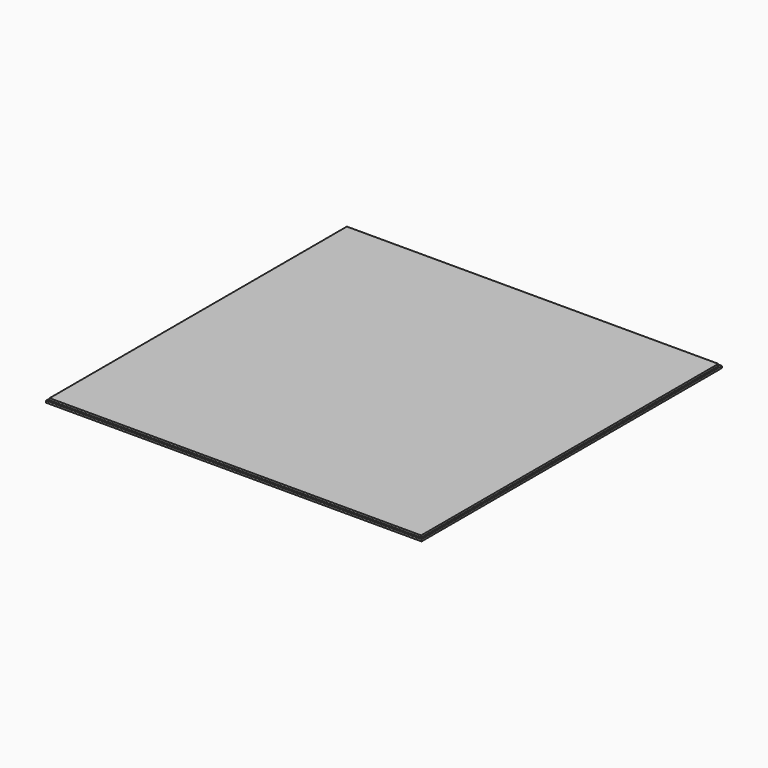
from build123d import *

# Parameters (mm, degrees)
F0_W     = 609.6
F0_H     = 609.6
F1_DEPTH = 6.35
F2_W     = 609.6
F2_H     = 609.6
F2_W_2   = 603.25
F2_H_2   = 603.25
F3_DEPTH = 3.175


with BuildPart() as f1:
    # F0 (on Top) → F1 (new body)
    with BuildSketch(Plane.XY):
        Rectangle(F0_W, F0_H)
    extrude(amount=F1_DEPTH)

    # F2 (on face) → F3 (cut)
    with BuildSketch(Plane.XY.offset(6.35)):
        Rectangle(F2_W, F2_H)
        Rectangle(F2_W_2, F2_H_2, mode=Mode.SUBTRACT)
    extrude(amount=-F3_DEPTH, mode=Mode.SUBTRACT)


solid = f1.part
